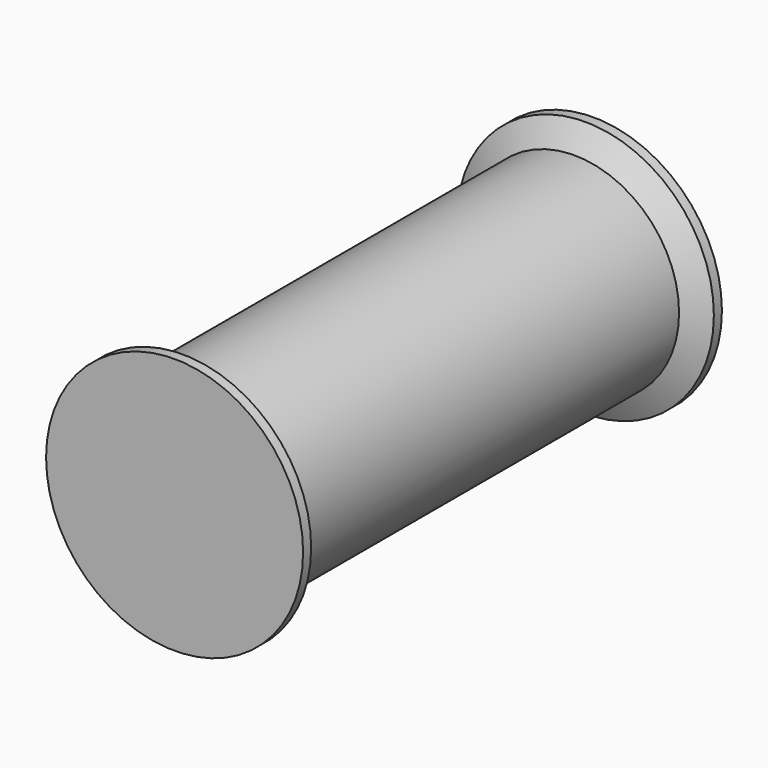
from build123d import *

# Parameters (mm, degrees)
F4_SIZE = 0.762


with BuildPart() as f1:
    # F0 (on Top) → F1 (revolve)
    with BuildSketch(Plane.XY):
        Polygon((0, -25.4), (2.5, -25.4), (2.5, -22.6676009336), (0, -24.1109766066), align=None)
        Polygon((2.5, -22.6676009336), (2.5, -25.4), (6.2352499547, -25.4), (6.2352499547, -24.9117339176), (5.08, -24.2447500453), (5.08, -1.1552499547), (6.2352499547, -0.4882660824), (6.2352499547, 0), (2.5, 0), align=None)
    revolve(axis=Axis((0, -12.0554883033, 0), (0, 1, 0)))

    # F2 (on face) → F3 (join, up to the next surface of F1)
    with BuildSketch(Plane(origin=(0, 0, 0), x_dir=(-1, 0, 0), z_dir=(0, 1, 0))):
        with BuildLine():
            ThreePointArc((1.570660689, 1.945), (0, 2.5), (-1.570660689, 1.945))
            Line((-1.570660689, 1.945), (1.570660689, 1.945))
        make_face()
    extrude(until=Until.NEXT, dir=(0, -1, 0))

    # F4
    f4_edges = [f1.edges().sort_by_distance(p)[0] for p in [
        (0, 0, -2.5),
        (0, 0, 1.945),
    ]]
    chamfer(f4_edges, length=F4_SIZE)


solid = f1.part
